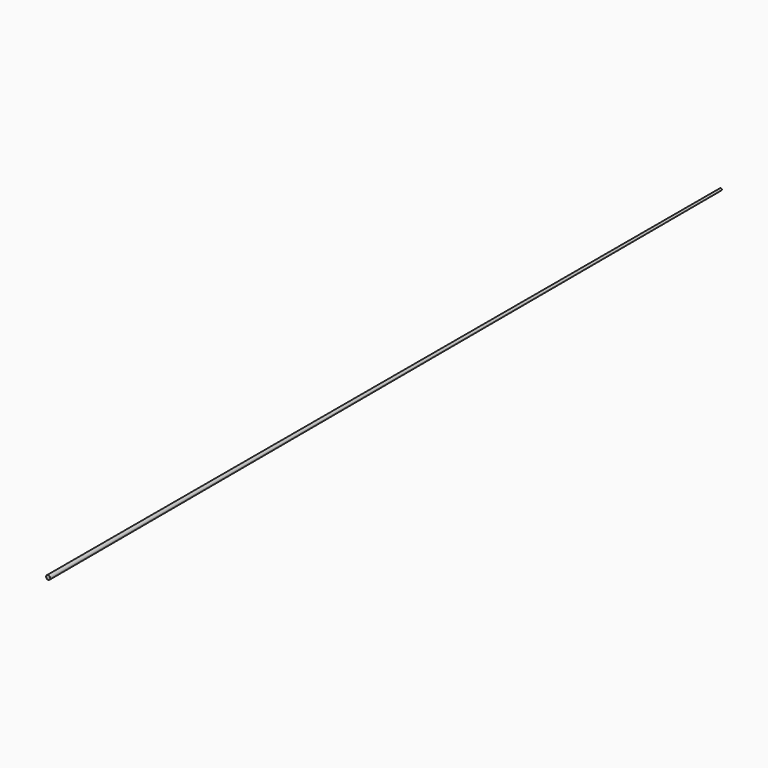
from build123d import *

# Parameters (mm, degrees)
F2_R = 3.175
F3_R = 1.5875


with BuildPart() as f4:
    # F2 (on offset) → F4 section 0
    with BuildSketch(Plane.XZ.offset(635)):
        Circle(F2_R)
    # F3 (on offset) → F4 section 1
    with BuildSketch(Plane.XZ.offset(-635)):
        Circle(F3_R)
    loft()


solid = f4.part
